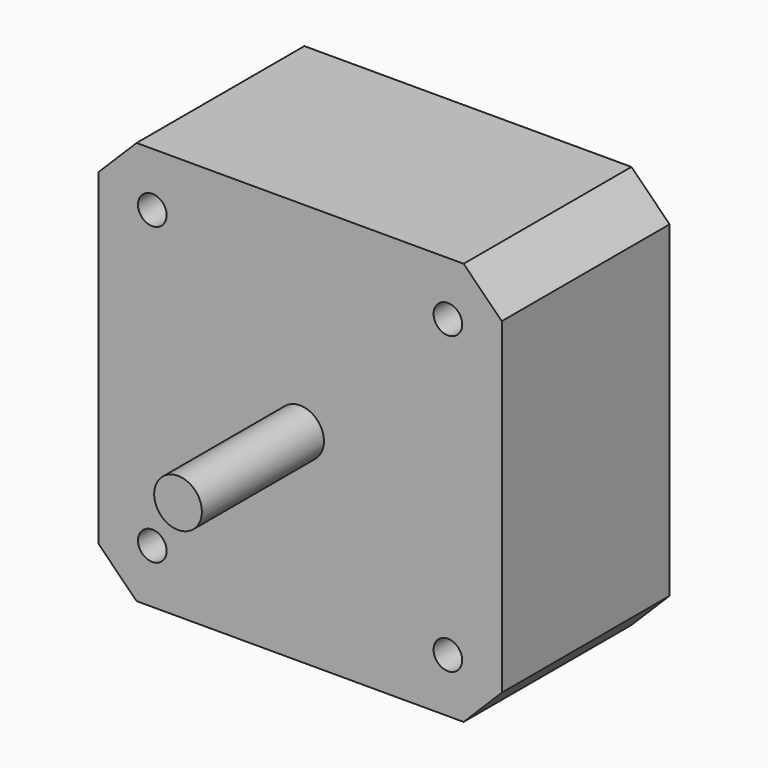
from build123d import *

# Parameters (mm, degrees)
F0_W     = 42.3
F0_H     = 42.3
F0_R     = 1.5
F1_DEPTH = 22
F2_R     = 2.5
F3_DEPTH = 16
F4_SIZE  = 4


with BuildPart() as f1:
    # F0 (on Front) → F1 (new body)
    with BuildSketch(Plane.XZ):
        Rectangle(F0_W, F0_H)
        with Locations((-15.5, -15.5)):
            Circle(F0_R, mode=Mode.SUBTRACT)
        with Locations((15.5, -15.5)):
            Circle(F0_R, mode=Mode.SUBTRACT)
        with Locations((-15.5, 15.5)):
            Circle(F0_R, mode=Mode.SUBTRACT)
        with Locations((15.5, 15.5)):
            Circle(F0_R, mode=Mode.SUBTRACT)
    extrude(amount=F1_DEPTH)

    # F2 (on face) → F3 (join)
    with BuildSketch(Plane.XZ.offset(22)):
        Circle(F2_R)
    extrude(amount=F3_DEPTH)

    # F4
    f4_edges = [f1.edges().sort_by_distance(p)[0] for p in [
        (21.15, -11, 21.15),
        (21.15, -11, -21.15),
        (-21.15, -11, 21.15),
        (-21.15, -11, -21.15),
    ]]
    chamfer(f4_edges, length=F4_SIZE)


solid = f1.part
